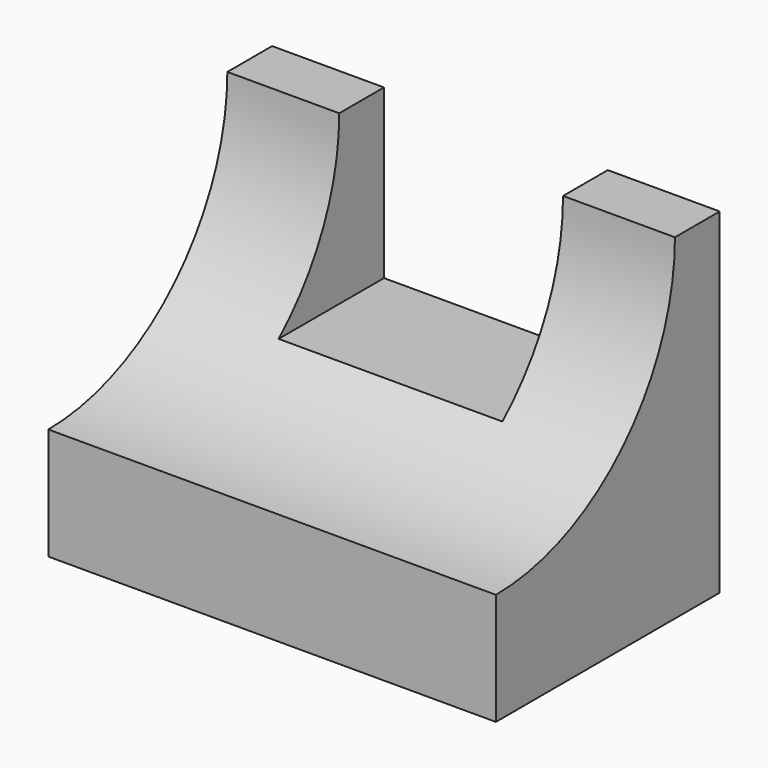
from build123d import *

# Parameters (mm, degrees)
F0_W     = 50.8
F0_H     = 38.1
F1_DEPTH = 31.75
F2_W     = 25.4
F2_H     = 19.05
F3_DEPTH = 31.751
F5_DEPTH = 50.801


with BuildPart() as f1:
    # F0 (on Front) → F1 (new body)
    with BuildSketch(Plane.XZ):
        with Locations((-39.57277257, 33.5646352235)):
            Rectangle(F0_W, F0_H)
    extrude(amount=F1_DEPTH)

    # F2 (on face) → F3 (cut, through all)
    with BuildSketch(Plane.XZ.offset(31.75)):
        with Locations((-39.57277257, 43.0896352235)):
            Rectangle(F2_W, F2_H)
    extrude(amount=-F3_DEPTH, mode=Mode.SUBTRACT)

    # F4 (on face) → F5 (cut, through all)
    with BuildSketch(Plane.YZ.offset(-14.17277257)):
        with BuildLine():
            ThreePointArc((-31.75, 27.2146352235), (-13.7894877579, 34.6541229814), (-6.35, 52.6146352235))
            Line((-6.35, 52.6146352235), (-31.75, 52.6146352235))
            Line((-31.75, 52.6146352235), (-31.75, 27.2146352235))
        make_face()
    extrude(amount=-F5_DEPTH, mode=Mode.SUBTRACT)


solid = f1.part
